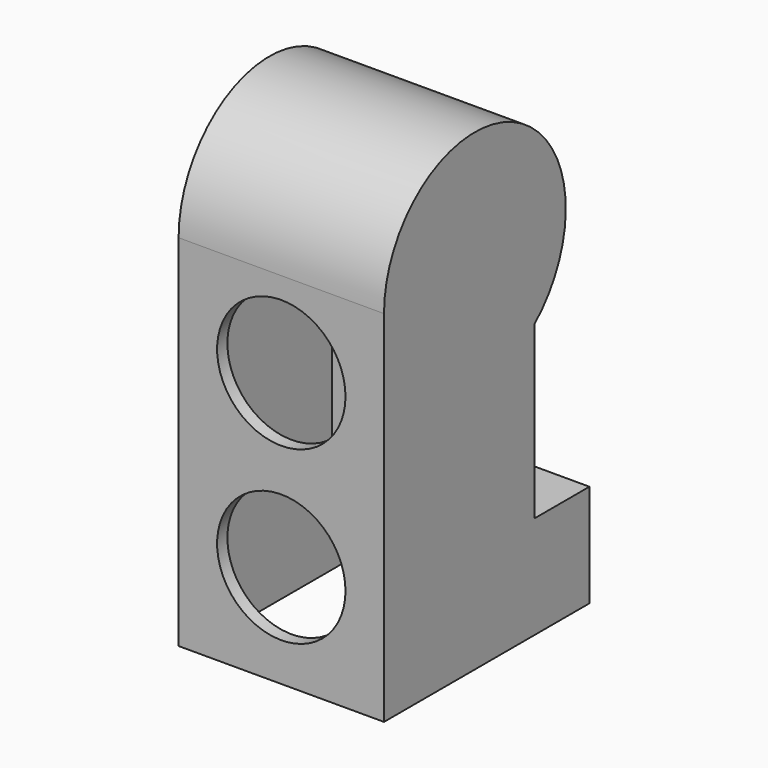
from build123d import *

# Parameters (mm, degrees)
F1_DEPTH = 24
F2_T     = -1.5
F3_R     = 5
F4_DEPTH = 5
F5_R     = 7.5
F6_DEPTH = 5


with BuildPart() as f1:
    # F0 (on Right) → F1 (new body)
    with BuildSketch(Plane.YZ):
        with BuildLine():
            Line((8.7272727273, -30), (8.7272727273, -10))
            ThreePointArc((8.7272727273, -10), (5.4922936244, 12.0830459736), (-13.2727272727, 0))
            Line((-13.2727272727, 0), (-13.2727272727, -42))
            Line((-13.2727272727, -42), (16.7272727273, -42))
            Line((16.7272727273, -42), (16.7272727273, -30))
            Line((16.7272727273, -30), (8.7272727273, -30))
        make_face()
    extrude(amount=F1_DEPTH)

    # F2
    f2_openings = [f1.faces().sort_by_distance(p)[0] for p in [
        (12, 1.727273, -42),
    ]]
    offset(amount=F2_T, openings=f2_openings, kind=Kind.INTERSECTION)

    # F3 (on face) → F4 (cut)
    with BuildSketch(Plane(origin=(0, 0, 0), x_dir=(0, -1, 0), z_dir=(-1, 0, 0))):
        Circle(F3_R)
    extrude(amount=-F4_DEPTH, mode=Mode.SUBTRACT)

    # F5 (on face) → F6 (cut)
    with BuildSketch(Plane.XZ.offset(13.2727272727)):
        with Locations((12, -10)):
            Circle(F5_R)
        with Locations((12, -30)):
            Circle(F5_R)
    extrude(amount=-F6_DEPTH, mode=Mode.SUBTRACT)


solid = f1.part
